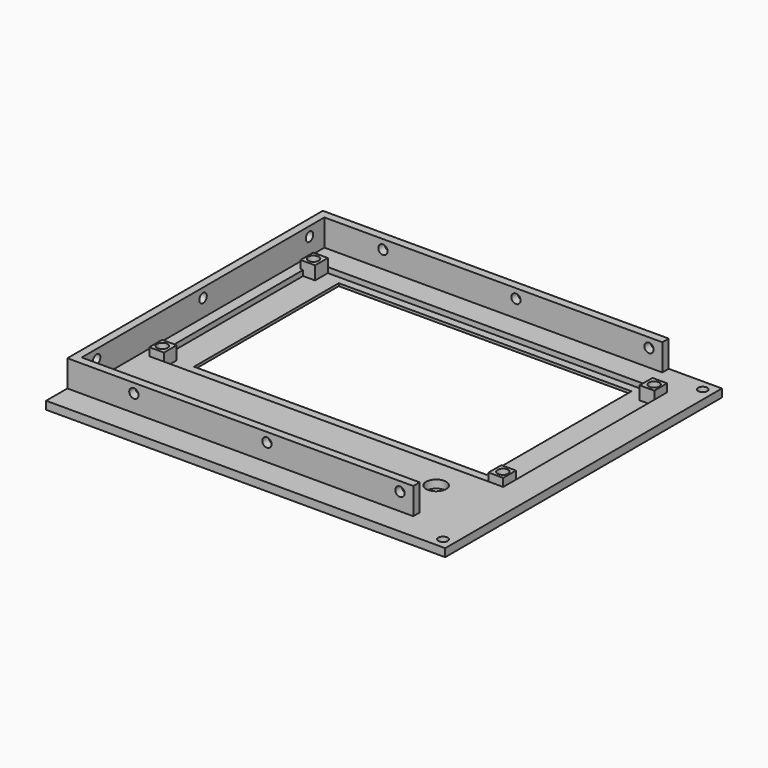
from build123d import *

# Parameters (mm, degrees)
SKETCH_W        = 150
SKETCH_H        = 130
SKETCH_R        = 3.75
SKETCH_R_2      = 1.75
SKETCH_W_2      = 110
SKETCH_H_2      = 68
PAD_DEPTH       = 3
SKETCH002_W     = 132
SKETCH002_H     = 77
POCKET001_DEPTH = 2.5
SKETCH007_W     = 5.5
SKETCH007_H     = 6
SKETCH007_R     = 2
PAD002_DEPTH    = 6
PAD003_DEPTH    = 10
SKETCH010_R     = 1.75
POCKET002_DEPTH = 6
SKETCH011_R     = 1.75
POCKET003_DEPTH = 7.5
SKETCH012_R     = 1.75
POCKET004_DEPTH = 7.5


with BuildPart() as part:
    # Sketch → Pad (new body)
    with BuildSketch(Plane.XY):
        with Locations((-75, -5)):
            Rectangle(SKETCH_W, SKETCH_H)
        with Locations((-27, -40.5)):
            Circle(SKETCH_R, mode=Mode.SUBTRACT)
        with Locations((-141, 45)):
            Circle(SKETCH_R_2, mode=Mode.SUBTRACT)
        with Locations((-141, -26)):
            Circle(SKETCH_R_2, mode=Mode.SUBTRACT)
        with Locations((-13.5, 45)):
            Circle(SKETCH_R_2, mode=Mode.SUBTRACT)
        with Locations((-13.5, -26)):
            Circle(SKETCH_R_2, mode=Mode.SUBTRACT)
        with Locations((-4, 56)):
            Circle(SKETCH_R_2, mode=Mode.SUBTRACT)
        with Locations((-4, -66)):
            Circle(SKETCH_R_2, mode=Mode.SUBTRACT)
        with Locations((-77, 11)):
            Rectangle(SKETCH_W_2, SKETCH_H_2, mode=Mode.SUBTRACT)
    extrude(amount=PAD_DEPTH)

    # Sketch002 → Pocket001 (cut)
    with BuildSketch(Plane.XY.offset(3.5)):
        with Locations((-77, 9.5)):
            Rectangle(SKETCH002_W, SKETCH002_H)
    extrude(amount=-POCKET001_DEPTH, mode=Mode.SUBTRACT)

    # Sketch007 → Pad002 (join)
    with BuildSketch(Plane.XY):
        with Locations((-141.25, 45)):
            Rectangle(SKETCH007_W, SKETCH007_H)
        with Locations((-141.5, 45)):
            Circle(SKETCH007_R, mode=Mode.SUBTRACT)
        with Locations((-13.75, 45)):
            Rectangle(SKETCH007_W, SKETCH007_H)
        with Locations((-13.5, 45)):
            Circle(SKETCH007_R, mode=Mode.SUBTRACT)
        with Locations((-13.75, -26)):
            Rectangle(SKETCH007_W, SKETCH007_H)
        with Locations((-13.5, -26)):
            Circle(SKETCH007_R, mode=Mode.SUBTRACT)
        with Locations((-141.25, -26)):
            Rectangle(SKETCH007_W, SKETCH007_H)
        with Locations((-141.5, -26)):
            Circle(SKETCH007_R, mode=Mode.SUBTRACT)
    extrude(amount=PAD002_DEPTH)

    # Sketch003 (on DatumPlane) → Pad003 (join)
    with BuildSketch(Plane.XY.offset(3)):
        Polygon((-20, 60), (-150, 60), (-150, -60), (-20, -60), (-20, -57), (-147, -57), (-147, 57), (-20, 57), align=None)
    extrude(amount=PAD003_DEPTH)

    # Sketch010 → Pocket002 (cut)
    with BuildSketch(Plane.XZ.offset(60)):
        with Locations((-125, 9.5)):
            Circle(SKETCH010_R)
        with Locations((-25, 9.5)):
            Circle(SKETCH010_R)
        with Locations((-75, 9.5)):
            Circle(SKETCH010_R)
    extrude(amount=-POCKET002_DEPTH, mode=Mode.SUBTRACT)

    # Sketch011 → Pocket003 (cut, symmetric)
    with BuildSketch(Plane.XZ.offset(-60)):
        with Locations((-75, 9.5)):
            Circle(SKETCH011_R)
        with Locations((-25, 9.5)):
            Circle(SKETCH011_R)
        with Locations((-125, 9.5)):
            Circle(SKETCH011_R)
    extrude(amount=POCKET003_DEPTH, both=True, mode=Mode.SUBTRACT)

    # Sketch012 (on DatumPlane) → Pocket004 (cut, symmetric)
    with BuildSketch(Plane.YZ.offset(-150)):
        with Locations((0, 9.5)):
            Circle(SKETCH012_R)
        with Locations((50, 9.5)):
            Circle(SKETCH012_R)
        with Locations((-50, 9.5)):
            Circle(SKETCH012_R)
    extrude(amount=POCKET004_DEPTH, both=True, mode=Mode.SUBTRACT)


solid = part.part
